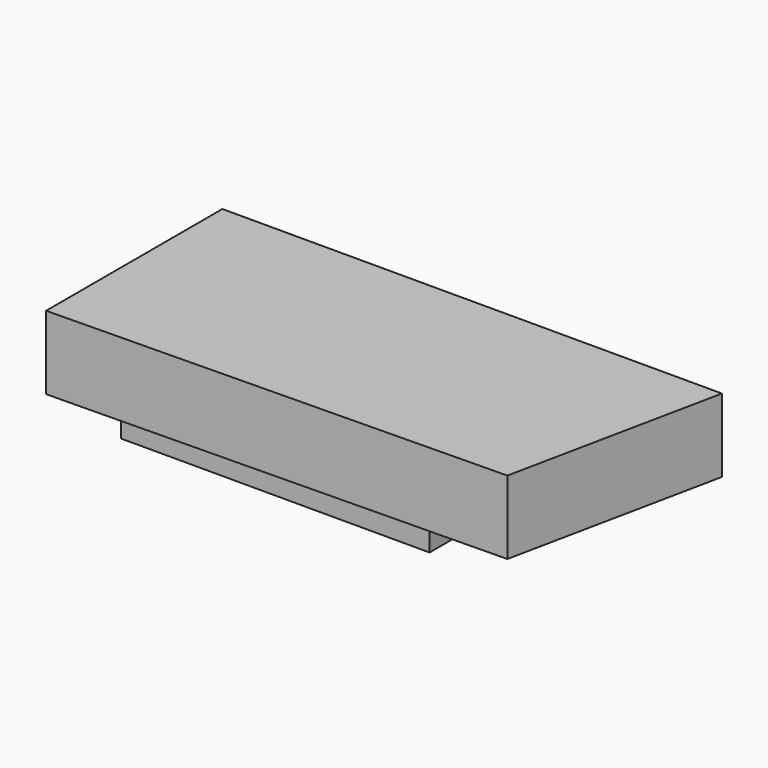
from build123d import *

# Parameters (mm, degrees)
F1_DEPTH = 10
F2_W     = 42
F2_H     = 12
F3_DEPTH = 8


with BuildPart() as f1:
    # F0 (on Top) → F1 (new body)
    with BuildSketch(Plane.XY):
        Polygon((26.376158, 18.430897), (-41.623842, 18.430897), (-41.623842, -11.569103), (20.368093, -10.569103), align=None)
    extrude(amount=F1_DEPTH)

    # F2 (on face) → F3 (join)
    with BuildSketch(Plane(origin=(0, 0, 0), x_dir=(1, 0, 0), z_dir=(0, 0, -1))):
        with Locations((-17.623842, -3.430897)):
            Rectangle(F2_W, F2_H)
    extrude(amount=F3_DEPTH)


solid = f1.part
